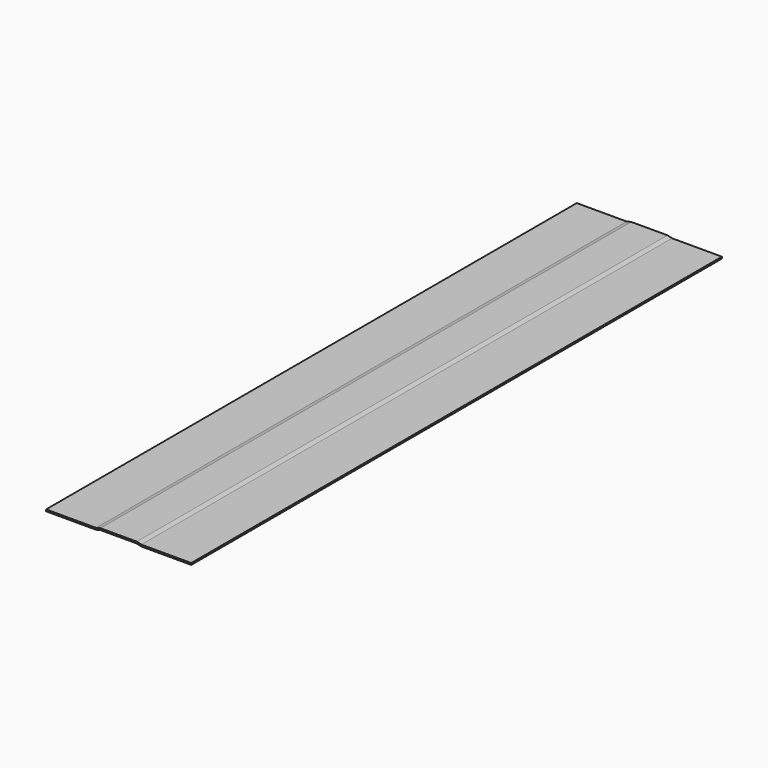
from build123d import *

# Parameters (mm, degrees)
F1_DEPTH = 585
F2_R     = 5


with BuildPart() as f1:
    # F0 (on Front) → F1 (new body)
    with BuildSketch(Plane.XZ):
        Polygon((-16, 0), (0, 0), (16, 0), (20, -1), (16, 1.5), (0, 1.5), (-16, 1.5), (-20, -1), align=None)
        Polygon((16, 1.5), (20, -1), (64, -1), (64, 0.5), (20, 0.5), align=None)
        Polygon((-64, -1), (-20, -1), (-16, 1.5), (-20, 0.5), (-64, 0.5), align=None)
    extrude(amount=F1_DEPTH)

    # F2
    f2_edges = [f1.edges().sort_by_distance(p)[0] for p in [
        (20, -292.5, -1),
        (16, -292.5, 0),
        (-16, -292.5, 0),
        (-20, -292.5, -1),
    ]]
    fillet(f2_edges, radius=F2_R)


solid = f1.part
